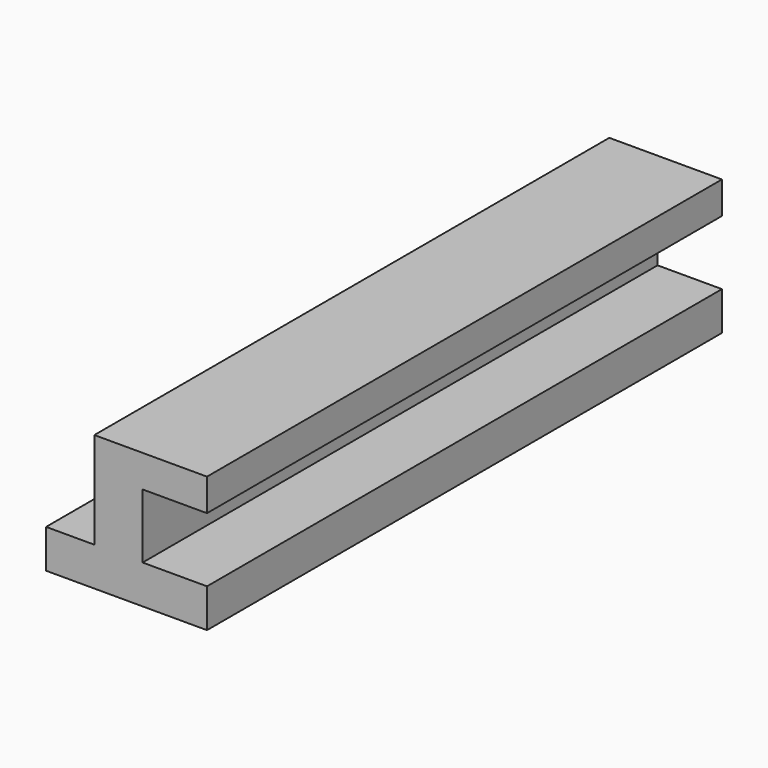
from build123d import *

# Parameters (mm, degrees)
PAD_DEPTH = 20


with BuildPart() as part:
    # Sketch → Pad (new body)
    with BuildSketch(Plane.XZ):
        Polygon((0, 0), (5, 0), (5, 1.2), (3, 1.2), (3, 3.2), (5, 3.2), (5, 4.2), (1.5, 4.2), (1.5, 1.2), (0, 1.2), align=None)
    extrude(amount=PAD_DEPTH)


solid = part.part
